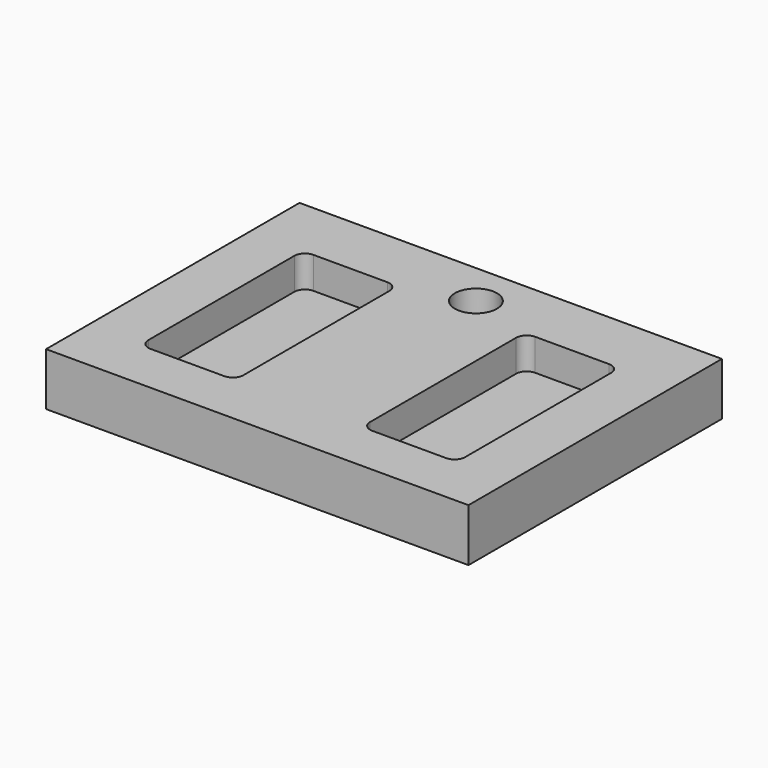
from build123d import *

# Parameters (mm, degrees)
F0_W     = 200
F0_H     = 150
F1_DEPTH = 25
F2_R     = 9.968788
F3_DEPTH = 15
F5_DEPTH = 15


with BuildPart() as f1:
    # F0 (on Top) → F1 (new body)
    with BuildSketch(Plane.XY):
        with Locations((24.923838, -0.264797)):
            Rectangle(F0_W, F0_H)
    extrude(amount=F1_DEPTH)

    # F2 (on face) → F3 (cut)
    with BuildSketch(Plane.XY.offset(25)):
        with Locations((24.923838, 54.140884)):
            Circle(F2_R)
    extrude(amount=-F3_DEPTH, mode=Mode.SUBTRACT)

    # F4 (on face) → F5 (cut)
    with BuildSketch(Plane.XY.offset(25)):
        with BuildLine():
            Line((-10.076162, 45.415138), (-45.076162, 45.415138))
            ThreePointArc((-45.076162, 45.415138), (-48.611696, 43.950672), (-50.076162, 40.415138))
            Line((-50.076162, 40.415138), (-50.076162, -45.985725))
            ThreePointArc((-50.076162, -45.985725), (-48.611696, -49.521259), (-45.076162, -50.985725))
            Line((-45.076162, -50.985725), (-10.076162, -50.985725))
            ThreePointArc((-10.076162, -50.985725), (-6.540628, -49.521259), (-5.076162, -45.985725))
            Line((-5.076162, -45.985725), (-5.076162, 40.415138))
            ThreePointArc((-5.076162, 40.415138), (-6.540628, 43.950672), (-10.076162, 45.415138))
        make_face()
        with BuildLine():
            Line((94.923838, 45.415138), (59.923838, 45.415138))
            ThreePointArc((59.923838, 45.415138), (56.388304, 43.950672), (54.923838, 40.415138))
            Line((54.923838, 40.415138), (54.923838, -45.985725))
            ThreePointArc((54.923838, -45.985725), (56.388304, -49.521259), (59.923838, -50.985725))
            Line((59.923838, -50.985725), (94.923838, -50.985725))
            ThreePointArc((94.923838, -50.985725), (98.459372, -49.521259), (99.923838, -45.985725))
            Line((99.923838, -45.985725), (99.923838, 40.415138))
            ThreePointArc((99.923838, 40.415138), (98.459372, 43.950672), (94.923838, 45.415138))
        make_face()
    extrude(amount=-F5_DEPTH, mode=Mode.SUBTRACT)


solid = f1.part
